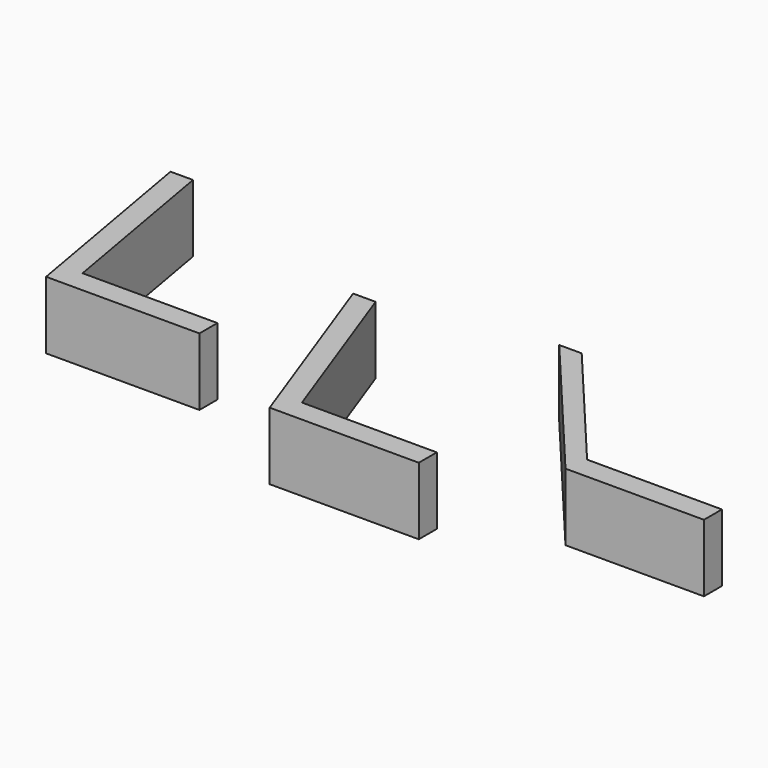
from build123d import *

# Parameters (mm, degrees)
F1_DEPTH = 15


with BuildPart() as f1:
    # F0 (on Top) → F1 (new body)
    with BuildSketch(Plane.XY):
        Polygon((-60.100388, 44.39231), (-65.100388, 44.39231), (-57.272826, 0), (-23.154461, 0), (-23.154461, 5), (-53.154461, 5), align=None)
        Polygon((-6.676077, 28.398826), (-11.676077, 28.398826), (3.824579, -14.188879), (37.004728, -14.188879), (37.004728, -9.188879), (7.004728, -9.188879), align=None)
        Polygon((33.387772, 35.641778), (28.387772, 35.641778), (58.294775, 0), (89.099276, 0), (89.099276, 5), (59.099276, 5), align=None)
    extrude(amount=F1_DEPTH)


solid = f1.part
